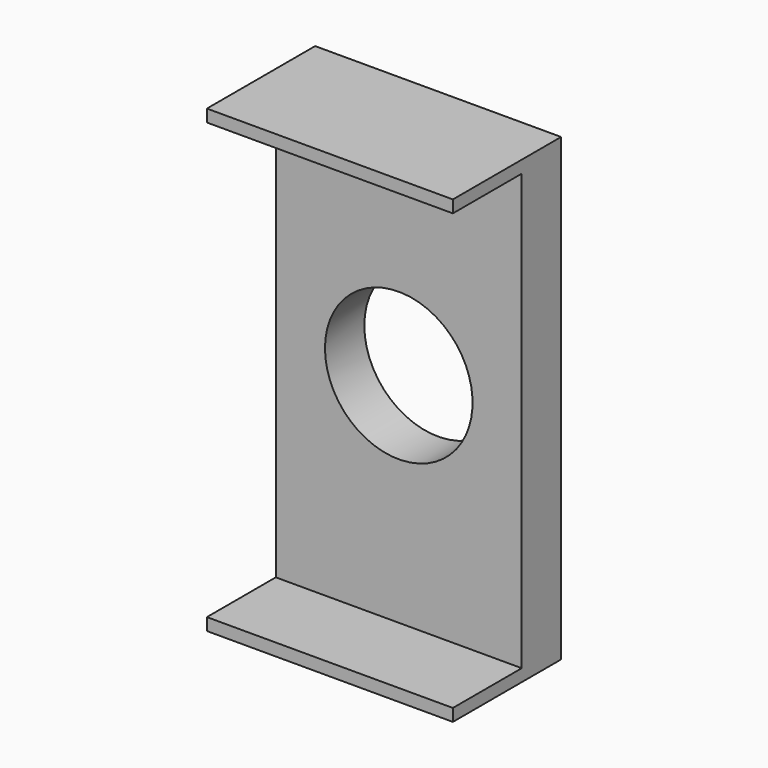
from build123d import *

# Parameters (mm, degrees)
F0_W     = 10
F0_H     = 18.7
F1_DEPTH = 2
F2_W     = 10
F2_H     = 0.5
F3_DEPTH = 3.5
F4_R     = 3
F5_DEPTH = 25


with BuildPart() as f1:
    # F0 (on Front) → F1 (new body)
    with BuildSketch(Plane.XZ):
        Rectangle(F0_W, F0_H)
    extrude(amount=F1_DEPTH)

    # F2 (on face) → F3 (join)
    with BuildSketch(Plane.XZ.offset(2)):
        with Locations((0, 9.1)):
            Rectangle(F2_W, F2_H)
        with Locations((0, -9.1)):
            Rectangle(F2_W, F2_H)
    extrude(amount=F3_DEPTH)

    # F4 (on face) → F5 (cut)
    with BuildSketch(Plane(origin=(0, 0, 0), x_dir=(-1, 0, 0), z_dir=(0, 1, 0))):
        Circle(F4_R)
    extrude(amount=-F5_DEPTH, mode=Mode.SUBTRACT)


solid = f1.part
